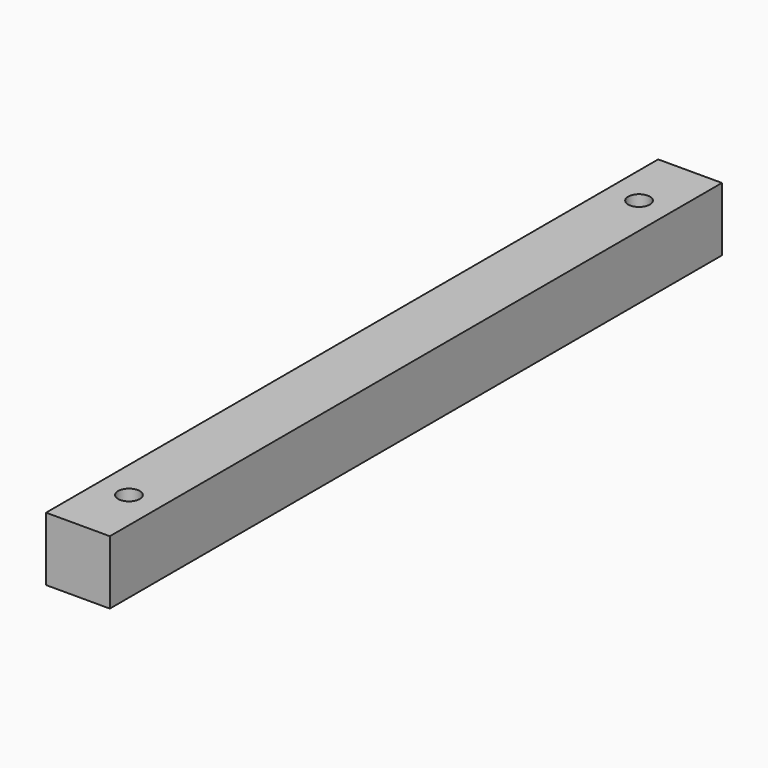
from build123d import *

# Parameters (mm, degrees)
F0_W     = 10
F0_H     = 10
F1_DEPTH = 120
F3_D     = 3.4


with BuildPart() as f1:
    # F0 (on Front) → F1 (new body)
    with BuildSketch(Plane.XZ):
        Rectangle(F0_W, F0_H)
    extrude(amount=F1_DEPTH)

    # F3 (through all)
    with Locations(Plane.XY.offset(5)):
        with Locations((0, -10), (0, -110)):
            Hole(F3_D / 2)


solid = f1.part
